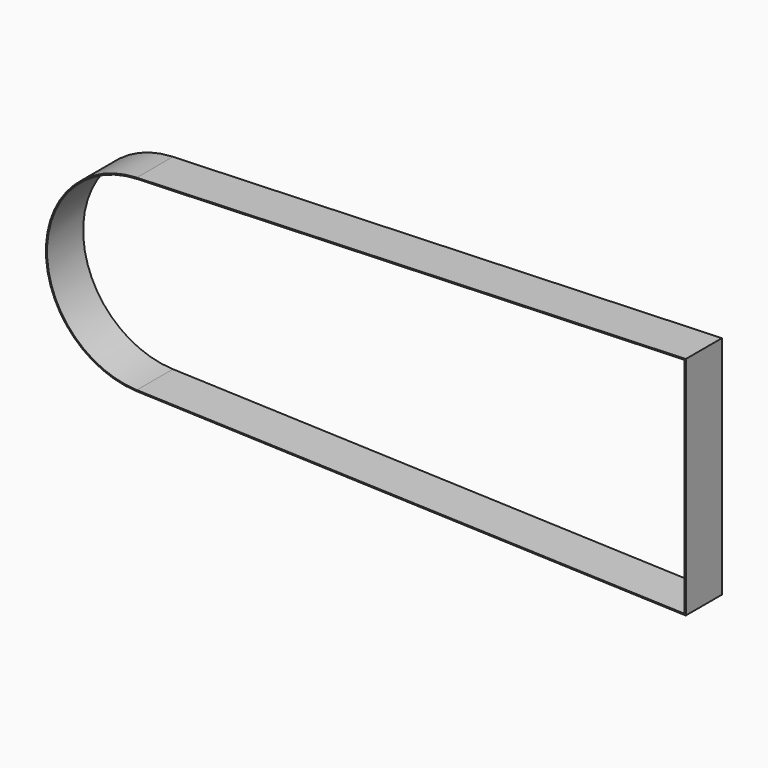
from build123d import *

# Parameters (mm, degrees)
F1_DEPTH = 60


with BuildPart() as f1:
    # F0 (on Front) → F1 (new body)
    with BuildSketch(Plane.XZ):
        with BuildLine():
            Line((0, -150), (0, 0))
            Line((0, 0), (0, 150))
            Line((0, 150), (-729.295073, 124.926188))
            ThreePointArc((-729.295073, 124.926188), (-850, 0), (-729.295073, -124.926188))
            Line((-729.295073, -124.926188), (0, -150))
        make_face()
        with BuildLine():
            Line((-1.5, 148.447542), (-1.5, 0))
            Line((-1.5, 0), (-1.5, -148.447542))
            Line((-1.5, -148.447542), (-729.243532, -123.427073))
            ThreePointArc((-729.243532, -123.427073), (-848.5, 0), (-729.243532, 123.427073))
            Line((-729.243532, 123.427073), (-1.5, 148.447542))
        make_face(mode=Mode.SUBTRACT)
    extrude(amount=F1_DEPTH)


solid = f1.part
